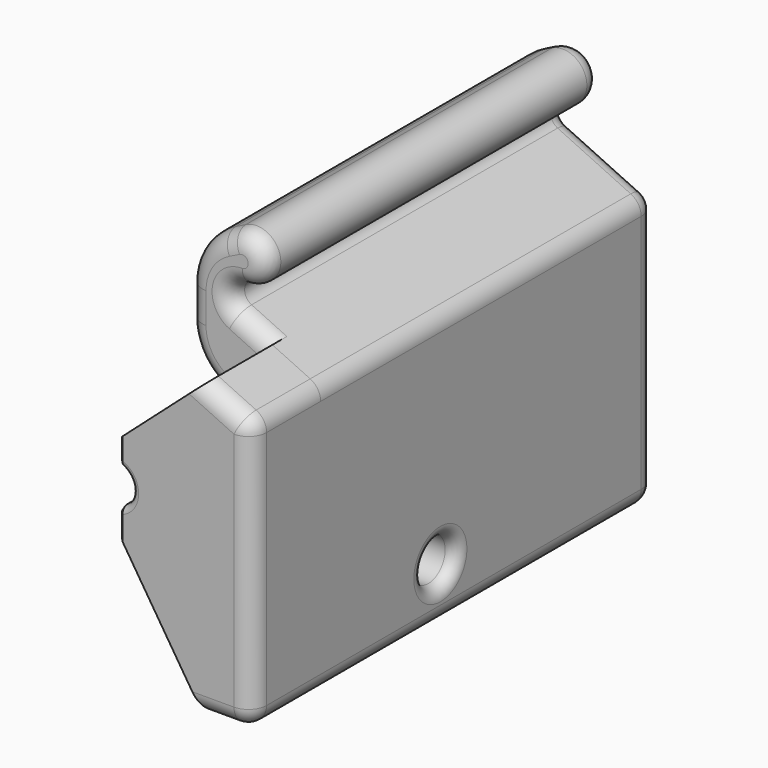
from build123d import *

# Parameters (mm, degrees)
PAD_DEPTH    = 34.7
FILLET_R     = 5
PAD001_DEPTH = 4.7
PAD002_DEPTH = 2.4
FILLET001_R  = 1.5
FILLET002_R  = 0.5
CHAMFER_SIZE = 0.25
SKETCH003_R  = 1.75
POCKET_DEPTH = 12
FILLET003_R  = 1
FILLET004_R  = 1
FILLET005_R  = 10


with BuildPart() as body_left_z_gantry:
    # Sketch → Pad (new body)
    with BuildSketch(Plane.XZ):
        with BuildLine():
            Line((4.5, -20.828593), (4.5, -29.5))
            Line((4.5, -29.5), (-6.5, -29.5))
            Line((-6.5, -29.5), (-6.5, -7.134378))
            Line((-6.5, -7.134378), (0.422618, -3.906308))
            ThreePointArc((0.422618, -3.906308), (0.976296, -2.78356), (0, -2))
            ThreePointArc((0.888889, 1.791613), (-1.947206, 0.456494), (0, -2))
            Line((0.888889, 1.791613), (4.5, 0))
            Line((4.5, 0), (4.5, -9.171407))
            ThreePointArc((4.5, -9.171407), (-0.85, -15), (4.5, -20.828593))
        make_face()
    extrude(amount=-PAD_DEPTH)

    # Fillet
    fillet_edges = [body_left_z_gantry.edges().sort_by_distance(p)[0] for p in [
        (4.5, 17.35, -9.171407),
        (4.5, 17.35, 0),
        (4.5, 17.35, -20.828593),
    ]]
    fillet(fillet_edges, radius=FILLET_R)

    # Sketch001 → Pad001 (join)
    with BuildSketch(Plane.XZ):
        with BuildLine():
            Line((-6.5, -29.5), (-2.5, -29.5))
            Line((-2.5, -29.5), (-2.5, -22.794229))
            ThreePointArc((-2.5, -7.205771), (-4, -15), (-2.5, -22.794229))
            Line((-2.5, -5.269147), (-2.5, -7.205771))
            Line((-6.5, -7.134378), (-2.5, -5.269147))
            Line((-6.5, -29.5), (-6.5, -7.134378))
        make_face()
    extrude(amount=PAD001_DEPTH)

    # Sketch002 (on Face15 of Pad001) → Pad002 (join)
    with BuildSketch(Plane.XZ.offset(4.7)):
        with BuildLine():
            ThreePointArc((4.5, -13.480132), (3.4, -15), (4.5, -16.519868))
            Line((4.5, -18.519868), (4.5, -16.519868))
            Line((-2.5, -29.5), (4.5, -18.519868))
            Line((-6.5, -29.5), (-2.5, -29.5))
            Line((-6.5, -7.134378), (-6.5, -29.5))
            Line((-2.5, -5.269147), (-6.5, -7.134378))
            Line((4.5, -11.480132), (-2.5, -5.269147))
            Line((4.5, -13.480132), (4.5, -11.480132))
        make_face()
    extrude(amount=PAD002_DEPTH)

    # Fillet001
    fillet001_edges = [body_left_z_gantry.edges().sort_by_distance(p)[0] for p in [
        (-0.85, 0, -15),
        (-0.85, 34.7, -15),
        (4.5, 17.35, -29.5),
        (-6.5, 13.8, -29.5),
        (-6.5, 34.7, -18.317189),
        (-1, 34.7, -29.5),
        (-4.5, -7.1, -29.5),
        (1, 0, -29.5),
        (-4.5, -7.1, -6.201762),
        (-6.5, -7.1, -18.317189),
        (-6.5, 13.8, -7.134378),
    ]]
    fillet(fillet001_edges, radius=FILLET001_R)

    # Fillet002
    fillet002_edges = [body_left_z_gantry.edges().sort_by_distance(p)[0] for p in [
        (3.4, -7.1, -15),
        (3.4, -4.7, -15),
    ]]
    fillet(fillet002_edges, radius=FILLET002_R)

    # Chamfer
    chamfer_edges = [body_left_z_gantry.edges().sort_by_distance(p)[0] for p in [
        (4.5, -5.9, -16.519868),
        (4.5, -5.9, -13.480132),
    ]]
    chamfer(chamfer_edges, length=CHAMFER_SIZE)

    # Sketch003 (on Face50 of Chamfer) → Pocket (cut)
    with BuildSketch(Plane(origin=(-6.5, 0, 0), x_dir=(0, 0, -1), z_dir=(-1, 0, 0))):
        with Locations((25, -12.4)):
            Circle(SKETCH003_R)
    extrude(amount=-POCKET_DEPTH, mode=Mode.SUBTRACT)

    # Fillet003
    fillet003_edges = [body_left_z_gantry.edges().sort_by_distance(p)[0] for p in [
        (-6.5, 12.4, -23.25),
    ]]
    fillet(fillet003_edges, radius=FILLET003_R)

    # Fillet004
    fillet004_edges = [body_left_z_gantry.edges().sort_by_distance(p)[0] for p in [
        (4.376896, 12.4, -23.25),
    ]]
    fillet(fillet004_edges, radius=FILLET004_R)

    # Fillet005
    fillet005_edges = [body_left_z_gantry.edges().sort_by_distance(p)[0] for p in [
        (-2.5, -2.35, -22.794229),
        (-2.5, -2.35, -7.205771),
    ]]
    fillet(fillet005_edges, radius=FILLET005_R)


with BuildPart() as body:
    # Part__Mirroring: instance of Body-left-z-gantry
    add(body_left_z_gantry.part.mirror(Plane(origin=(0, 0, 0), x_dir=(0, -1, 0), z_dir=(1, 0, 0))))


solid = body.part
